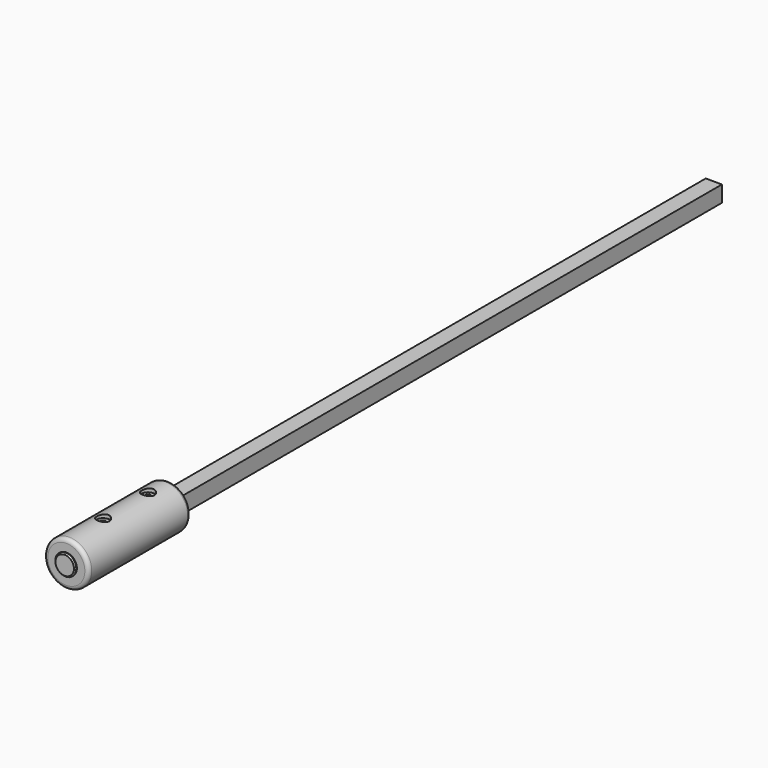
from build123d import *

# Parameters (mm, degrees)
BOX_W                  = 12.7
BOX_H                  = 609.6
BOX_DEPTH              = 12.7
SKETCH001_R            = 8.25
EXTRUDE001_DEPTH       = 1.6
CHAMFER_SIZE           = 1
SKETCH002_W            = 15
SKETCH002_H            = 4.2
EXTRUDE002_DEPTH       = 17.4
FUSION_PLACEMENT_ANGLE = 90
CYLINDER001_R          = 2
CYLINDER001_DEPTH      = 10
CYLINDER_R             = 2
CYLINDER_DEPTH         = 10
BOX002_W               = 13.7
BOX002_H               = 609.6
BOX002_DEPTH           = 13.7
SKETCH007_R            = 5
EXTRUDE007_DEPTH       = 3
SKETCH006_R            = 5
EXTRUDE006_DEPTH       = 3
SKETCH005_W            = 6.7
SKETCH005_H            = 4
EXTRUDE005_DEPTH       = 90
BOX001_W               = 12.7
BOX001_H               = 609.6
BOX001_DEPTH           = 12.7
EXTRUDE003_DEPTH       = 20
SKETCH004_W            = 4.2
SKETCH004_H            = 18
EXTRUDE004_DEPTH       = 20
SKETCH_R               = 17.5
EXTRUDE_DEPTH          = 100
FILLET_R               = 3


with BuildPart() as dowel:
    # Box → Box (new body)
    with BuildSketch(Plane.XY):
        with Locations((6.35, 304.8)):
            Rectangle(BOX_W, BOX_H)
    extrude(amount=BOX_DEPTH)


with BuildPart() as chamfer_body:
    # Sketch001 → Extrude001 (new body)
    with BuildSketch(Plane.XY):
        Circle(SKETCH001_R)
    extrude(amount=EXTRUDE001_DEPTH)

    # Chamfer
    chamfer_edges = [chamfer_body.edges().sort_by_distance(p)[0] for p in [
        (-8.25, 0, 1.6),
    ]]
    chamfer(chamfer_edges, length=CHAMFER_SIZE)


with BuildPart() as switch:
    # Sketch002 (on Face3 of Chamfer) → Extrude002 (new body)
    with BuildSketch(Plane(origin=(0, 0, 0), x_dir=(1, 0, 0), z_dir=(0, 0, -1))):
        Rectangle(SKETCH002_W, SKETCH002_H)
    extrude(amount=EXTRUDE002_DEPTH)

    # Fusion: union Chamfer body
    add(chamfer_body.part)


with BuildPart() as switch_1:
    # Fusion placement: moved
    add(switch.part.moved(Location((6.35, -25, 6.35))).rotate(Axis((6.35, -25, 6.35), (1, 0, 0)), FUSION_PLACEMENT_ANGLE))


with BuildPart() as cylinder002:
    # Cylinder001 → Cylinder001 (new body)
    with BuildSketch(Plane(origin=(6.35, 11, 13), x_dir=(1, 0, 0), z_dir=(0, 0, 1))):
        Circle(CYLINDER001_R)
    extrude(amount=CYLINDER001_DEPTH)


with BuildPart() as screwshaftguides:
    # Cylinder → Cylinder (new body)
    with BuildSketch(Plane(origin=(6.35, 55, 13), x_dir=(1, 0, 0), z_dir=(0, 0, 1))):
        Circle(CYLINDER_R)
    extrude(amount=CYLINDER_DEPTH)

    # Fusion002: union Cylinder002
    add(cylinder002.part)


with BuildPart() as dowel002:
    # Box002 → Box002 (new body)
    with BuildSketch(Plane(origin=(-0.5, 0, -0.5), x_dir=(1, 0, 0), z_dir=(0, 0, 1))):
        with Locations((6.85, 304.8)):
            Rectangle(BOX002_W, BOX002_H)
    extrude(amount=BOX002_DEPTH)


with BuildPart() as screwheadhole2:
    # Sketch007 → Extrude007 (new body)
    with BuildSketch(Plane.XY):
        Circle(SKETCH007_R)
    extrude(amount=EXTRUDE007_DEPTH)


with BuildPart() as screwheadhole2_1:
    # Extrude007 placement: moved
    add(screwheadhole2.part.moved(Location((6.35, 55, 21))))


with BuildPart() as screwheadhole1:
    # Sketch006 → Extrude006 (new body)
    with BuildSketch(Plane.XY):
        Circle(SKETCH006_R)
    extrude(amount=EXTRUDE006_DEPTH)


with BuildPart() as screwheadhole1_1:
    # Extrude006 placement: moved
    add(screwheadhole1.part.moved(Location((6.35, 11, 21))))


with BuildPart() as extrude005:
    # Sketch005 (on Edge5 of Cut001) → Extrude005 (new body)
    with BuildSketch(Plane(origin=(6.35, 75, 6.35), x_dir=(0, 0, 1), z_dir=(0, -1, 0))):
        with Locations((0, 8.35)):
            Rectangle(SKETCH005_W, SKETCH005_H)
    extrude(amount=EXTRUDE005_DEPTH)


with BuildPart() as dowel001:
    # Box001 → Box001 (new body)
    with BuildSketch(Plane.XY):
        with Locations((6.35, 304.8)):
            Rectangle(BOX001_W, BOX001_H)
    extrude(amount=BOX001_DEPTH)


with BuildPart() as switchcutoutprimary:
    # Sketch003 (on Edge5 of Fillet) → Extrude003 (new body)
    with BuildSketch(Plane(origin=(6.35, -25, 6.35), x_dir=(0, 0, 1), z_dir=(0, -1, 0))):
        with BuildLine():
            Line((-8, 2.1), (-8, -2.1))
            Line((-8, -2.1), (-7.719456, -2.1))
            ThreePointArc((-7.719456, -2.1), (0, -8), (7.719456, -2.1))
            Line((8, -2.1), (7.719456, -2.1))
            Line((8, 2.1), (8, -2.1))
            Line((8, 2.1), (7.719456, 2.1))
            ThreePointArc((7.719456, 2.1), (5.170096, 6.104925), (0.8, 7.959899))
            Line((0.8, 8.5), (0.8, 7.959899))
            Line((-0.8, 8.5), (0.8, 8.5))
            Line((-0.8, 7.959899), (-0.8, 8.5))
            ThreePointArc((-0.8, 7.959899), (-5.170096, 6.104925), (-7.719456, 2.1))
            Line((-8, 2.1), (-7.719456, 2.1))
        make_face()
    extrude(amount=EXTRUDE003_DEPTH)


with BuildPart() as switchcutoutprimary_1:
    # Extrude003 placement: moved
    add(switchcutoutprimary.part.moved(Location((0, 20, 0))))


with BuildPart() as switchcutoutcombined:
    # Sketch004 (on Face7 of Extrude003) → Extrude004 (new body)
    with BuildSketch(Plane(origin=(0, 20, 14.35), x_dir=(1, 0, 0), z_dir=(0, 0, 1))):
        with Locations((6.35, -34)):
            Rectangle(SKETCH004_W, SKETCH004_H)
    extrude(amount=EXTRUDE004_DEPTH)


with BuildPart() as switchcutoutcombined_1:
    # Extrude004 placement: moved
    add(switchcutoutcombined.part.moved(Location((0, 0, -17.5))))

    # Fusion001: union SwitchCutoutPrimary
    add(switchcutoutprimary_1.part)


with BuildPart() as obj1:
    # Sketch (on Face3 of Box) → Extrude (new body)
    with BuildSketch(Plane.XZ):
        with Locations((6.35, 6.35)):
            Circle(SKETCH_R)
    extrude(amount=-EXTRUDE_DEPTH)


with BuildPart() as obj1_1:
    # Extrude placement: moved
    add(obj1.part.moved(Location((0, -25, 0))))

    # Fillet
    fillet_edges = [obj1_1.edges().sort_by_distance(p)[0] for p in [
        (-11.15, -25, 6.35),
        (-11.15, 75, 6.35),
    ]]
    fillet(fillet_edges, radius=FILLET_R)

    # Cut: cut SwitchCutoutCombined
    add(switchcutoutcombined_1.part, mode=Mode.SUBTRACT)

    # Cut001: cut Dowel001
    add(dowel001.part, mode=Mode.SUBTRACT)

    # Cut002: cut Extrude005
    add(extrude005.part, mode=Mode.SUBTRACT)

    # Cut003: cut ScrewHeadHole1
    add(screwheadhole1_1.part, mode=Mode.SUBTRACT)

    # Cut004: cut ScrewHeadHole2
    add(screwheadhole2_1.part, mode=Mode.SUBTRACT)

    # Cut005: cut Dowel002
    add(dowel002.part, mode=Mode.SUBTRACT)

    # Cut006: cut ScrewShaftGuides
    add(screwshaftguides.part, mode=Mode.SUBTRACT)


solid = Compound([dowel.part, switch_1.part, obj1_1.part])
